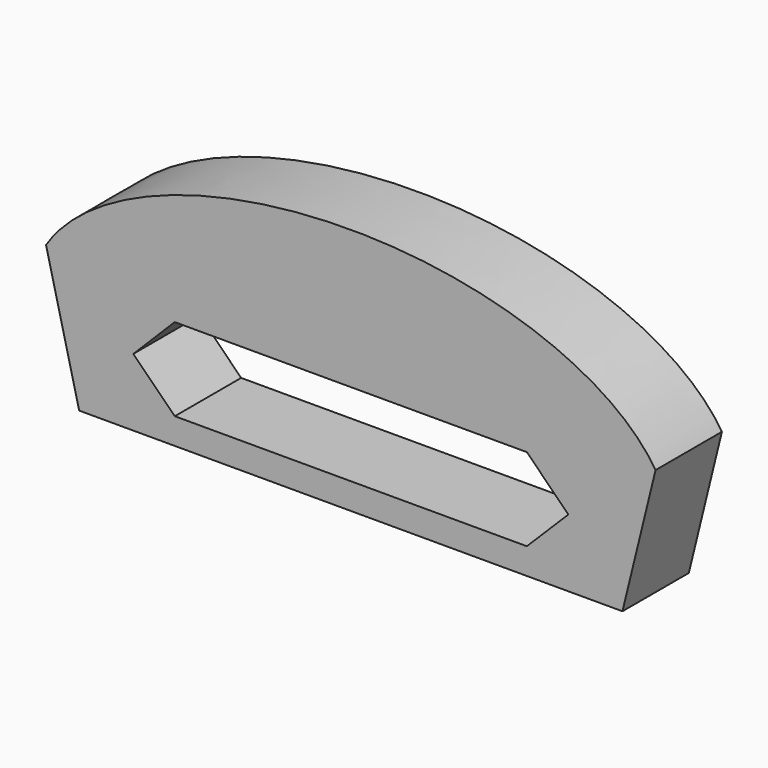
from build123d import *

# Parameters (mm, degrees)
F2_DEPTH = 25.4


with BuildPart() as f2:
    # F1 (on Front) → F2 (new body)
    with BuildSketch(Plane.XZ):
        with BuildLine():
            Line((83.1839653551, -92.7227025355), (93.3241924209, -51.3479548737))
            add(Edge.make_bspline(
                [(93.3241924209, -51.3479548737), (0, 95.9786721212), (-93.3241924209, -51.3479548737)],
                knots=[0.3102753039, 0.3102753039, 0.3102753039, 2.8313173497, 2.8313173497, 2.8313173497], degree=2, weights=[1, 0.3053208061, 1]))
            Line((-93.3241924209, -51.3479548737), (-83.1839653551, -92.7227025355))
            Line((-83.1839653551, -92.7227025355), (83.1839653551, -92.7227025355))
        make_face()
        Polygon((-66.6030276888, -72.0353287046), (-53.9340679584, -59.3353666377), (47.827086872, -59.3353666377), (53.9340679584, -59.3353666377), (66.6030276888, -72.0353287046), (53.9030656219, -84.704288435), (47.8580892086, -84.704288435), (-53.9030656219, -84.704288435), align=None, mode=Mode.SUBTRACT)
    extrude(amount=F2_DEPTH)


solid = f2.part
